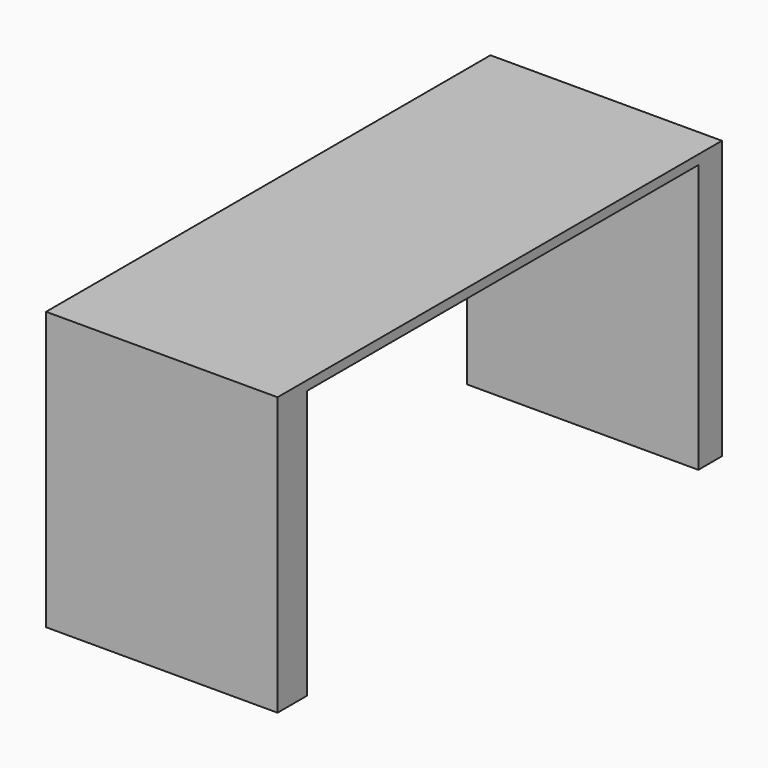
from build123d import *

# Parameters (mm, degrees)
F0_W     = 762
F0_H     = 1828.8
F1_DEPTH = 914.4
F2_W     = 1610.908806
F2_H     = 883.479238
F3_DEPTH = 762.001


with BuildPart() as f1:
    # F0 (on Top) → F1 (new body)
    with BuildSketch(Plane.XY):
        Rectangle(F0_W, F0_H)
    extrude(amount=F1_DEPTH)

    # F2 (on face) → F3 (cut, through all)
    with BuildSketch(Plane(origin=(-381, 0, 0), x_dir=(0, -1, 0), z_dir=(-1, 0, 0))):
        with Locations((-11.932641, 441.739619)):
            Rectangle(F2_W, F2_H)
    extrude(amount=-F3_DEPTH, mode=Mode.SUBTRACT)


solid = f1.part
